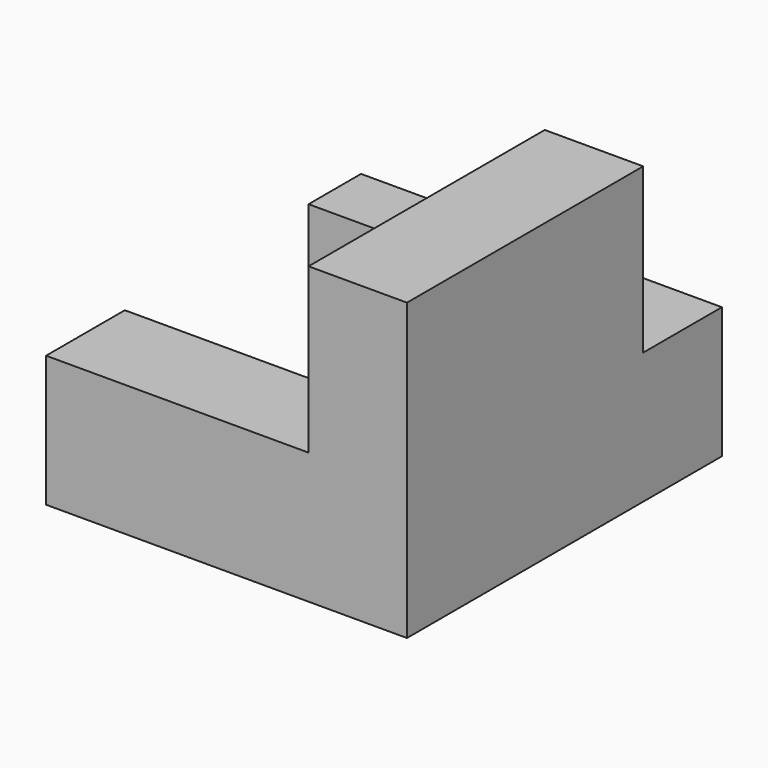
from build123d import *

# Parameters (mm, degrees)
F0_W     = 55
F0_H     = 60
F1_DEPTH = 45
F2_W     = 55
F2_H     = 25
F3_DEPTH = 15
F4_W     = 40
F4_H     = 5
F5_DEPTH = 20.001
F7_DEPTH = 45.001
F8_W     = 15
F8_H     = 20
F9_DEPTH = 40


with BuildPart() as f1:
    # F0 (on Top) → F1 (new body)
    with BuildSketch(Plane.XY):
        Rectangle(F0_W, F0_H)
    extrude(amount=F1_DEPTH)

    # F2 (on face) → F3 (cut)
    with BuildSketch(Plane(origin=(0, 30, 0), x_dir=(-1, 0, 0), z_dir=(0, 1, 0))):
        with Locations((0, 32.5)):
            Rectangle(F2_W, F2_H)
    extrude(amount=-F3_DEPTH, mode=Mode.SUBTRACT)

    # F4 (on face) → F5 (cut, through all)
    with BuildSketch(Plane.XY.offset(20)):
        with Locations((-7.5, 17.5)):
            Rectangle(F4_W, F4_H)
    extrude(amount=-F5_DEPTH, mode=Mode.SUBTRACT)

    # F6 (on face) → F7 (cut, through all)
    with BuildSketch(Plane(origin=(0, 15, 0), x_dir=(-1, 0, 0), z_dir=(0, 1, 0))):
        Polygon((-12.5, 45), (-12.5, 20), (-12.5, 0), (27.5, 0), (27.5, 45), align=None)
    extrude(amount=-F7_DEPTH, mode=Mode.SUBTRACT)

    # F8 (on face) → F9 (join)
    with BuildSketch(Plane(origin=(12.5, 0, 0), x_dir=(0, -1, 0), z_dir=(-1, 0, 0))):
        with Locations((22.5, 10)):
            Rectangle(F8_W, F8_H)
    extrude(amount=F9_DEPTH)


solid = f1.part
